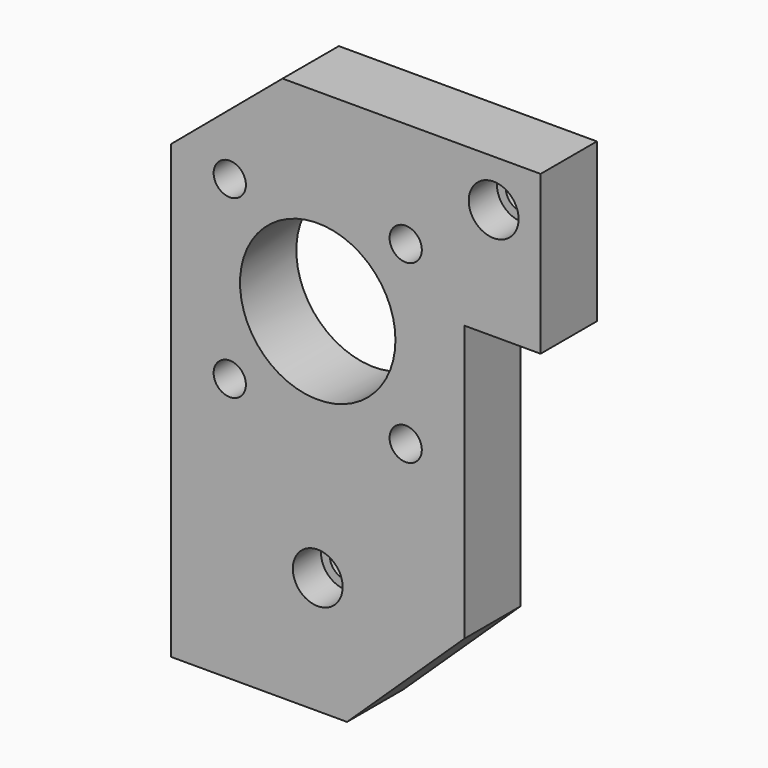
from build123d import *

# Parameters (mm, degrees)
F0_R     = 2.75
F0_R_2   = 13.25
F1_DEPTH = 12
F2_R     = 4.25
F3_DEPTH = 6
F4_R     = 4.25
F5_DEPTH = 6


with BuildPart() as f1:
    # F0 (on Front) → F1 (new body)
    with BuildSketch(Plane.XZ):
        Polygon((19, 93), (0, 77), (0, 0), (30, 0), (50, 19), (50, 66), (63, 66), (63, 93), align=None)
        with Locations((25, 20)):
            Circle(F0_R, mode=Mode.SUBTRACT)
        with Locations((10, 45)):
            Circle(F0_R, mode=Mode.SUBTRACT)
        with Locations((40, 45)):
            Circle(F0_R, mode=Mode.SUBTRACT)
        with Locations((25, 60)):
            Circle(F0_R_2, mode=Mode.SUBTRACT)
        with Locations((10, 75)):
            Circle(F0_R, mode=Mode.SUBTRACT)
        with Locations((40, 75)):
            Circle(F0_R, mode=Mode.SUBTRACT)
        with Locations((55, 85)):
            Circle(F0_R, mode=Mode.SUBTRACT)
    extrude(amount=F1_DEPTH)

    # F2 (on face) → F3 (cut)
    with BuildSketch(Plane.XZ.offset(12)):
        with Locations((55, 85)):
            Circle(F2_R)
        with Locations((25, 20)):
            Circle(F2_R)
    extrude(amount=-F3_DEPTH, mode=Mode.SUBTRACT)

    # F4 (on face) → F5 (cut)
    with BuildSketch(Plane(origin=(0, 0, 0), x_dir=(-1, 0, 0), z_dir=(0, 1, 0))):
        with Locations((-10, 75)):
            Circle(F4_R)
        with Locations((-40, 75)):
            Circle(F4_R)
        with Locations((-40, 45)):
            Circle(F4_R)
        with Locations((-10, 45)):
            Circle(F4_R)
    extrude(amount=-F5_DEPTH, mode=Mode.SUBTRACT)


solid = f1.part
